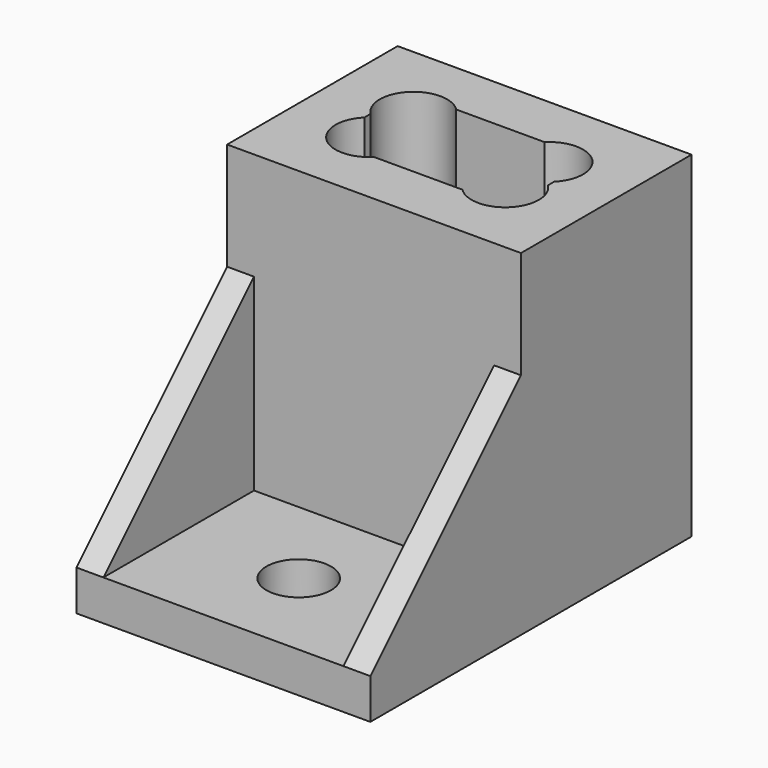
from build123d import *

# Parameters (mm, degrees)
F0_W      = 21.85
F0_H      = 15.85
F1_DEPTH  = 25
F3_DEPTH  = 22
F4_R      = 2.4
F5_DEPTH  = 3.001
F6_W      = 21.85
F6_H      = 14
F6_R      = 2.4
F7_DEPTH  = 3
F9_DEPTH  = 2
F11_DEPTH = 2


with BuildPart() as f1:
    # F0 (on Top) → F1 (new body)
    with BuildSketch(Plane.XY):
        Rectangle(F0_W, F0_H)
    extrude(amount=F1_DEPTH)

    # F2 (on face) → F3 (cut, through all)
    with BuildSketch(Plane.XY.offset(25)):
        with BuildLine():
            Line((3.2894660941, 3.825), (-3.2894660941, 3.825))
            ThreePointArc((-3.2894660941, 3.825), (-6.825, 3.825), (-6.825, 0.2894660941))
            Line((-6.825, 0.2894660941), (-6.825, -0.2894660941))
            ThreePointArc((-6.825, -0.2894660941), (-6.825, -3.825), (-3.2894660941, -3.825))
            Line((-3.2894660941, -3.825), (3.2894660941, -3.825))
            ThreePointArc((3.2894660941, -3.825), (6.825, -3.825), (6.825, -0.2894660941))
            Line((6.825, -0.2894660941), (6.825, 0.2894660941))
            ThreePointArc((6.825, 0.2894660941), (6.825, 3.825), (3.2894660941, 3.825))
        make_face()
    extrude(amount=-F3_DEPTH, mode=Mode.SUBTRACT)

    # F4 (on face) → F5 (cut, through all)
    with BuildSketch(Plane.XY.offset(3)):
        Circle(F4_R)
    extrude(amount=-F5_DEPTH, mode=Mode.SUBTRACT)

    # F6 (on Top) → F7 (join)
    with BuildSketch(Plane.XY):
        with Locations((0, -14.925)):
            Rectangle(F6_W, F6_H)
        with Locations((0, -14.925)):
            Circle(F6_R, mode=Mode.SUBTRACT)
    extrude(amount=F7_DEPTH)

    # F8 (on face) → F9 (join)
    with BuildSketch(Plane(origin=(-10.925, 0, 0), x_dir=(0, -1, 0), z_dir=(-1, 0, 0))):
        Polygon((21.925, 3), (7.925, 17), (7.925, 3), align=None)
    extrude(amount=-F9_DEPTH)

    # F10 (on face) → F11 (join)
    with BuildSketch(Plane.YZ.offset(10.925)):
        Polygon((-7.925, 3), (-7.925, 17), (-21.925, 3), align=None)
    extrude(amount=-F11_DEPTH)


solid = f1.part
